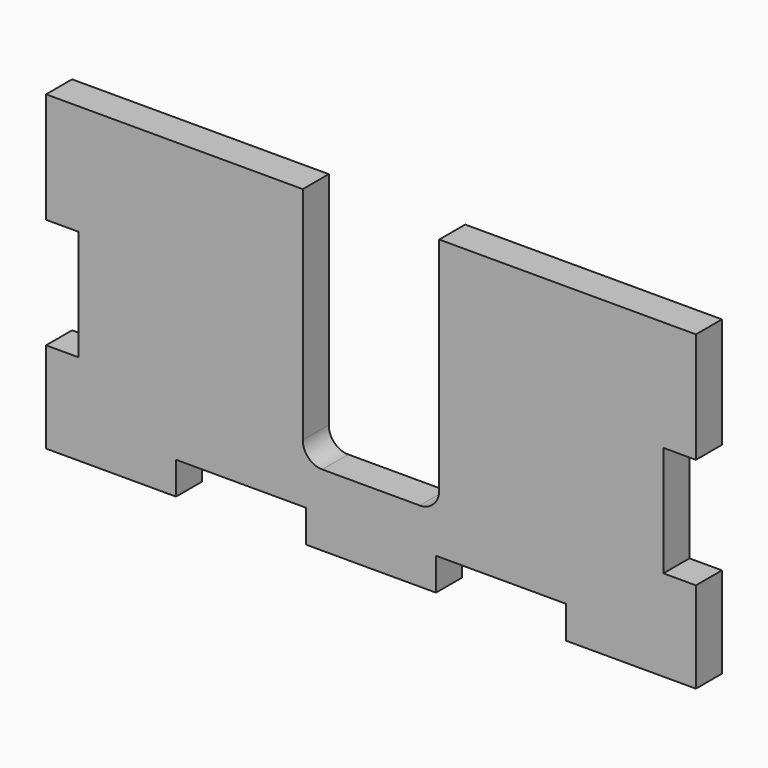
from build123d import *

# Parameters (mm, degrees)
F1_DEPTH = 5


with BuildPart() as f1:
    # F0 (on Front) → F1 (new body)
    with BuildSketch(Plane.XZ):
        with BuildLine():
            Line((50, 21.5), (45, 21.5))
            Line((45, 21.5), (10.5, 21.5))
            Line((10.5, 21.5), (10.5, -12.5))
            ThreePointArc((10.5, -12.5), (9.62132, -14.62132), (7.5, -15.5))
            Line((7.5, -15.5), (-7.5, -15.5))
            ThreePointArc((-7.5, -15.5), (-9.62132, -14.62132), (-10.5, -12.5))
            Line((-10.5, -12.5), (-10.5, 21.5))
            Line((-10.5, 21.5), (-45, 21.5))
            Line((-45, 21.5), (-50, 21.5))
            Line((-50, 21.5), (-50, 4.5))
            Line((-50, 4.5), (-45, 4.5))
            Line((-45, 4.5), (-45, -12.5))
            Line((-45, -12.5), (-50, -12.5))
            Line((-50, -12.5), (-50, -23))
            Line((-50, -23), (-50, -26.5))
            Line((-50, -26.5), (-45, -26.5))
            Line((-45, -26.5), (-30, -26.5))
            Line((-30, -26.5), (-30, -21.5))
            Line((-30, -21.5), (-10, -21.5))
            Line((-10, -21.5), (-10, -26.5))
            Line((-10, -26.5), (10, -26.5))
            Line((10, -26.5), (10, -21.5))
            Line((10, -21.5), (30, -21.5))
            Line((30, -21.5), (30, -26.5))
            Line((30, -26.5), (50, -26.5))
            Line((50, -26.5), (50, -23))
            Line((50, -23), (50, -12.5))
            Line((50, -12.5), (45, -12.5))
            Line((45, -12.5), (45, 4.5))
            Line((45, 4.5), (50, 4.5))
            Line((50, 4.5), (50, 21.5))
        make_face()
    extrude(amount=F1_DEPTH)


solid = f1.part
